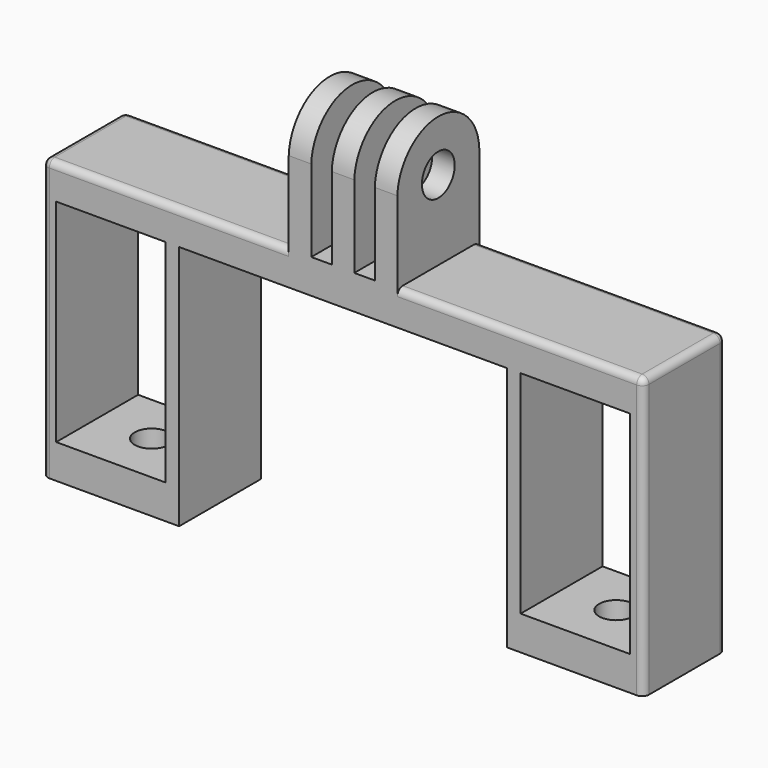
from build123d import *

# Parameters (mm, degrees)
SKETCH_W               = 16
SKETCH_H               = 31
PAD_DEPTH              = 15
SKETCH001_R            = 2.5
POCKET_DEPTH           = 5
SKETCH002_R            = 3
PAD001_DEPTH           = 1.65
LINEARPATTERN_COUNT    = 2
LINEARPATTERN_PITCH    = 6.3
LINEARPATTERN001_COUNT = 2
LINEARPATTERN001_PITCH = 6.3
FILLET_R               = 1
FILLET001_R            = 1
FILLET002_R            = 1
FILLET003_R            = 1
FILLET004_R            = 1
FILLET005_R            = 1


with BuildPart() as part:
    # Sketch → Pad (new body)
    with BuildSketch(Plane.XZ):
        Polygon((0, 0), (-44, 0), (-44, -41), (-24, -41), (-24, -5), (0, -5), align=None)
        with Locations((-34, -20.5)):
            Rectangle(SKETCH_W, SKETCH_H, mode=Mode.SUBTRACT)
    pad = extrude(amount=PAD_DEPTH)

    # Mirrored: Pad across Sketch V_Axis
    add(pad.mirror(Plane(origin=(0, 0, 0), x_dir=(0, -1, 0), z_dir=(1, 0, 0))))

    # Sketch001 (on Face11 of Mirrored) → Pocket (cut)
    with BuildSketch(Plane(origin=(0, 0, -36), x_dir=(-1, 0, 0), z_dir=(0, 0, 1))):
        with Locations((-34, 7.5)):
            Circle(SKETCH001_R)
    pocket = extrude(amount=-POCKET_DEPTH, mode=Mode.SUBTRACT)

    # Mirrored001: Pocket across Sketch001 V_Axis
    add(pocket.mirror(Plane(origin=(0, 0, -36), x_dir=(0, 0, 1), z_dir=(-1, 0, 0))), mode=Mode.SUBTRACT)

    # Sketch002 → Pad001 (join, symmetric)
    with BuildSketch(Plane.YZ):
        with BuildLine():
            Line((-15, 0), (0, 0))
            Line((0, 0), (0, 12))
            ThreePointArc((0, 12), (-7.5, 19.163278), (-15, 12))
            Line((-15, 12), (-15, 0))
        make_face()
        with Locations((-7.5, 11.655364)):
            Circle(SKETCH002_R, mode=Mode.SUBTRACT)
    pad001 = extrude(amount=PAD001_DEPTH, both=True)

    # LinearPattern: Pad001 ×2
    with Locations(*[(i * LINEARPATTERN_PITCH, 0, 0) for i in range(1, LINEARPATTERN_COUNT)]):
        add(pad001)

    # LinearPattern001: Pad001 ×2
    with Locations(*[(-i * LINEARPATTERN001_PITCH, 0, 0) for i in range(1, LINEARPATTERN001_COUNT)]):
        add(pad001)

    # Fillet
    fillet_edges = [part.edges().sort_by_distance(p)[0] for p in [
        (25.975, 0, 0),
    ]]
    fillet(fillet_edges, radius=FILLET_R)

    # Fillet001
    fillet001_edges = [part.edges().sort_by_distance(p)[0] for p in [
        (-25.975, 0, 0),
    ]]
    fillet(fillet001_edges, radius=FILLET001_R)

    # Fillet002
    fillet002_edges = [part.edges().sort_by_distance(p)[0] for p in [
        (25.975, -15, 0),
    ]]
    fillet(fillet002_edges, radius=FILLET002_R)

    # Fillet003
    fillet003_edges = [part.edges().sort_by_distance(p)[0] for p in [
        (-25.975, -15, 0),
    ]]
    fillet(fillet003_edges, radius=FILLET003_R)

    # Fillet004
    fillet004_edges = [part.edges().sort_by_distance(p)[0] for p in [
        (-44, -7.5, 0),
    ]]
    fillet(fillet004_edges, radius=FILLET004_R)

    # Fillet005
    fillet005_edges = [part.edges().sort_by_distance(p)[0] for p in [
        (44, -7.5, 0),
    ]]
    fillet(fillet005_edges, radius=FILLET005_R)


solid = part.part
